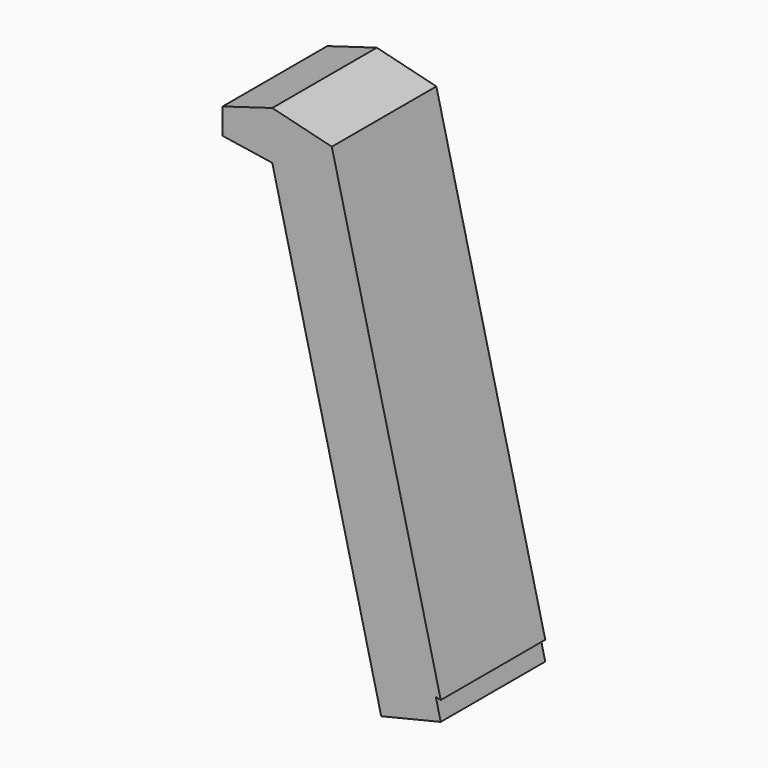
from build123d import *

# Parameters (mm, degrees)
F1_DEPTH = 150.622
F2_DEPTH = 535.686


with BuildPart() as f1:
    # F0 (on Front) → F1 (new body)
    with BuildSketch(Plane.XZ):
        Polygon((-57.1294426918, 8.7780756876), (0, 0), (0, 55.6904152036), (-57.1294426918, 38.7098751962), align=None)
        Polygon((0, 55.6904152036), (0, 0), (68.6416700482, 16.5488310158), (68.6416700482, 38.7098751962), align=None)
    extrude(amount=F1_DEPTH)

    # F2 (add): faces of the model
    f2_faces = [f1.faces().sort_by_distance(p)[0] for p in [
        (34.3208350241, -75.311, 8.2744155079),
        (34.3208350241, -75.311, 47.2001451999),
    ]]
    extrude(f2_faces, amount=F2_DEPTH, dir=(0.2343749013, 0, -0.9721462882))


solid = f1.part
